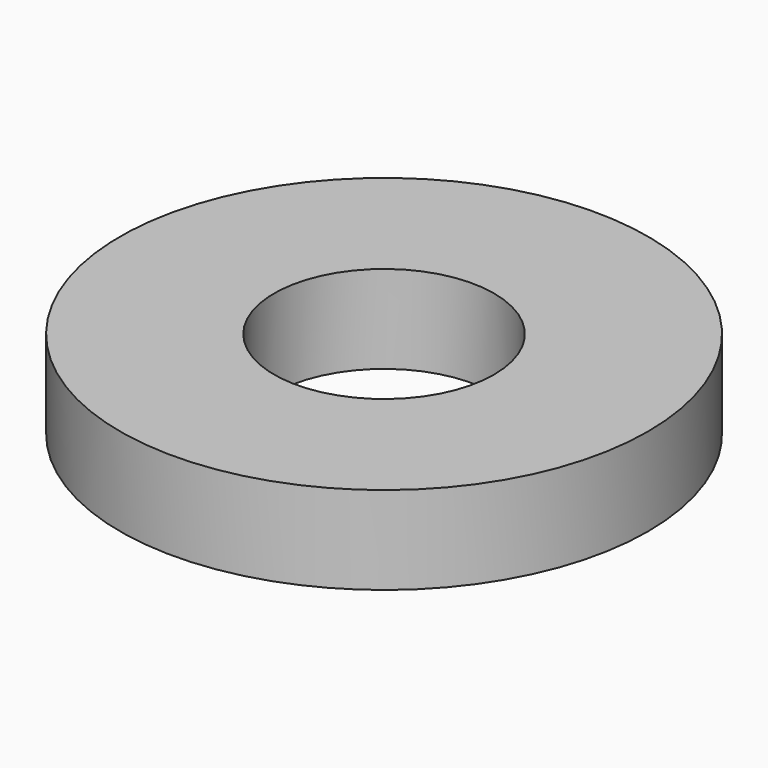
from build123d import *

# Parameters (mm, degrees)
SKETCH_R   = 6
SKETCH_R_2 = 2.5
PAD_DEPTH  = 2


with BuildPart() as part:
    # Sketch → Pad (new body)
    with BuildSketch(Plane.XY):
        Circle(SKETCH_R)
        Circle(SKETCH_R_2, mode=Mode.SUBTRACT)
    extrude(amount=PAD_DEPTH)


solid = part.part
